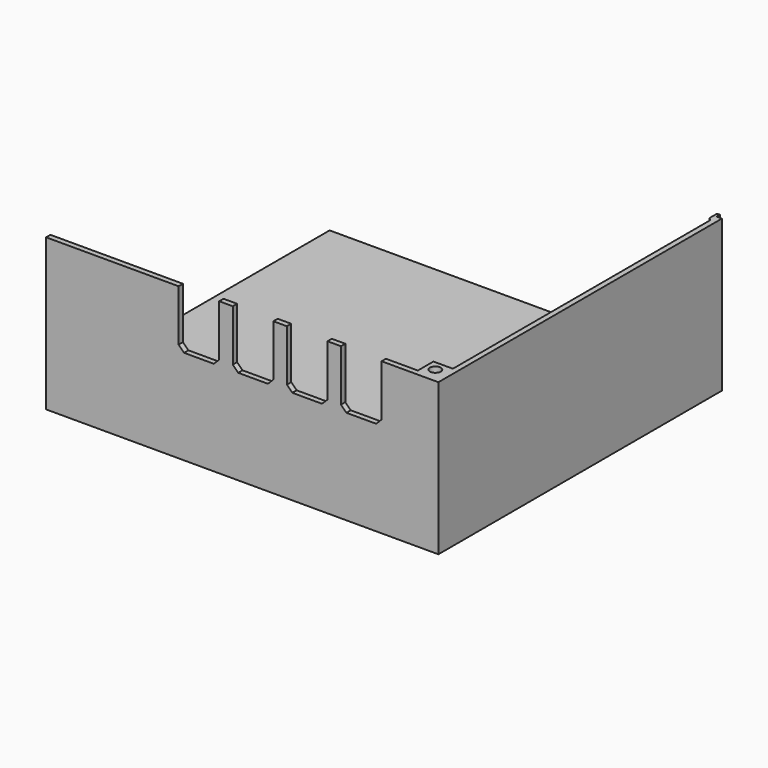
from build123d import *

# Parameters (mm, degrees)
SKETCH_1_W      = 140
SKETCH_1_H      = 116
PAD_DEPTH       = 5
SKETCH_W        = 140
SKETCH_H        = 15
PAD001_DEPTH    = 5
SKETCH001_W     = 107
SKETCH001_H     = 2
PAD002_DEPTH    = 51
SKETCH002_W     = 15
SKETCH002_H     = 41
POCKET_DEPTH    = 2
SKETCH003_W     = 5
SKETCH003_H     = 131
PAD003_DEPTH    = 5
PAD004_DEPTH    = 51
SKETCH005_W     = 33
SKETCH005_H     = 2
PAD005_DEPTH    = 51
SKETCH006_R     = 3.6
PAD006_DEPTH    = 12.4
SKETCH007_R     = 2
POCKET001_DEPTH = 6.7
SKETCH008_W     = 122.1
SKETCH008_H     = 2.08
POCKET002_DEPTH = 11
SKETCH009_W     = 108.1
SKETCH009_H     = 2.08
POCKET003_DEPTH = 11
SKETCH010_W     = 7.2
SKETCH010_H     = 7.2
PAD007_DEPTH    = 51
SKETCH011_R     = 2
POCKET004_DEPTH = 6.7
PAD008_DEPTH    = 51
FILLET_R        = 2
CHAMFER_SIZE    = 2


with BuildPart() as part:
    # Sketch_1 → Pad (new body)
    with BuildSketch(Plane.XY):
        with Locations((-70, 58)):
            Rectangle(SKETCH_1_W, SKETCH_1_H)
    extrude(amount=PAD_DEPTH)

    # Sketch → Pad001 (join)
    with BuildSketch(Plane.XY):
        with Locations((-70, -7.5)):
            Rectangle(SKETCH_W, SKETCH_H)
    extrude(amount=PAD001_DEPTH)

    # Sketch001 (on Face8 of Pad001) → Pad002 (join)
    with BuildSketch(Plane.XY.offset(5)):
        with Locations((-53.5, -14)):
            Rectangle(SKETCH001_W, SKETCH001_H)
    extrude(amount=PAD002_DEPTH)

    # Sketch002 (on Face11 of Pad002) → Pocket (cut)
    with BuildSketch(Plane.XZ.offset(15)):
        with Locations((-23.5, 55.5)):
            Rectangle(SKETCH002_W, SKETCH002_H)
        with Locations((-43.5, 55.5)):
            Rectangle(SKETCH002_W, SKETCH002_H)
        with Locations((-63.5, 55.5)):
            Rectangle(SKETCH002_W, SKETCH002_H)
        with Locations((-83.5, 55.5)):
            Rectangle(SKETCH002_W, SKETCH002_H)
    extrude(amount=-POCKET_DEPTH, mode=Mode.SUBTRACT)

    # Sketch003 → Pad003 (join)
    with BuildSketch(Plane.XY):
        with Locations((2.5, 50.5)):
            Rectangle(SKETCH003_W, SKETCH003_H)
    extrude(amount=PAD003_DEPTH)

    # Sketch004 (on Face11 of Pad003) → Pad004 (join)
    with BuildSketch(Plane.XY.offset(5)):
        Polygon((5, 116), (3, 116), (3, -13), (0, -13), (0, -15), (5, -15), align=None)
    extrude(amount=PAD004_DEPTH)

    # Sketch005 (on Face8 of Pad004) → Pad005 (join)
    with BuildSketch(Plane.XY.offset(5)):
        with Locations((-123.5, -14)):
            Rectangle(SKETCH005_W, SKETCH005_H)
    extrude(amount=PAD005_DEPTH)

    # Sketch006 (on Face5 of Pad005) → Pad006 (join)
    with BuildSketch(Plane.XY.offset(5)):
        with Locations((-5, 5)):
            Circle(SKETCH006_R)
        with Locations((-5, 111)):
            Circle(SKETCH006_R)
    extrude(amount=PAD006_DEPTH)

    # Sketch007 (on Face25 of Pad006) → Pocket001 (cut)
    with BuildSketch(Plane.XY.offset(17.4)):
        with Locations((-5, 5)):
            Circle(SKETCH007_R)
        with Locations((-5, 111)):
            Circle(SKETCH007_R)
    extrude(amount=-POCKET001_DEPTH, mode=Mode.SUBTRACT)

    # Sketch008 (on Face3 of Pocket001) → Pocket002 (cut)
    with BuildSketch(Plane(origin=(0, 116, 0), x_dir=(-1, 0, 0), z_dir=(0, 1, 0))):
        with Locations((58, 2.46)):
            Rectangle(SKETCH008_W, SKETCH008_H)
    extrude(amount=-POCKET002_DEPTH, mode=Mode.SUBTRACT)

    # Sketch009 (on Face1 of Pocket002) → Pocket003 (cut)
    with BuildSketch(Plane(origin=(-140, 0, 0), x_dir=(0, -1, 0), z_dir=(-1, 0, 0))):
        with Locations((-41, 2.46)):
            Rectangle(SKETCH009_W, SKETCH009_H)
    extrude(amount=-POCKET003_DEPTH, mode=Mode.SUBTRACT)

    # Sketch010 (on Face16 of Pocket003) → Pad007 (join)
    with BuildSketch(Plane.XY.offset(5)):
        with Locations((-0.6, -9.4)):
            Rectangle(SKETCH010_W, SKETCH010_H)
    extrude(amount=PAD007_DEPTH)

    # Sketch011 (on Face41 of Pad007) → Pocket004 (cut)
    with BuildSketch(Plane.XY.offset(56)):
        with Locations((-0.6, -9.4)):
            Circle(SKETCH011_R)
    extrude(amount=-POCKET004_DEPTH, mode=Mode.SUBTRACT)

    # Sketch012 (on Face16 of Pocket004) → Pad008 (join)
    with BuildSketch(Plane.XY.offset(5)):
        Polygon((3, 116), (3, 114), (3, 113), (2, 114), (2, 117.5), (3, 117.5), align=None)
    extrude(amount=PAD008_DEPTH)

    # Fillet
    fillet_edges = [part.edges().sort_by_distance(p)[0] for p in [
        (-8.6, 5, 5),
        (-8.6, 111, 5),
    ]]
    fillet(fillet_edges, radius=FILLET_R)

    # Chamfer
    chamfer_edges = [part.edges().sort_by_distance(p)[0] for p in [
        (-91, -14, 35),
        (-71, -14, 35),
        (-76, -14, 35),
        (-56, -14, 35),
        (-51, -14, 35),
        (-36, -14, 35),
        (-31, -14, 35),
        (-16, -14, 35),
    ]]
    chamfer(chamfer_edges, length=CHAMFER_SIZE)


solid = part.part
